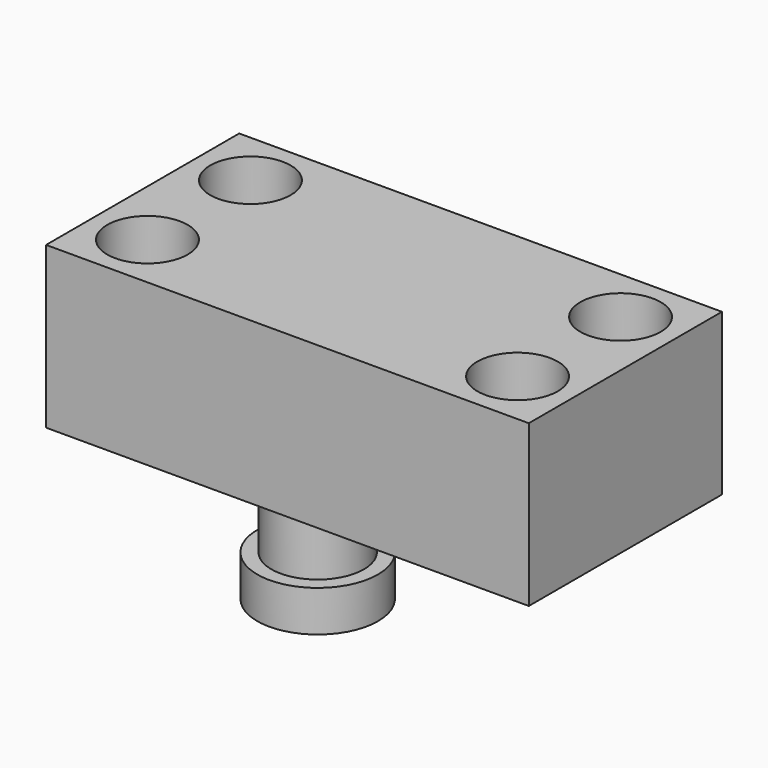
from build123d import *

# Parameters (mm, degrees)
F0_W     = 76.2
F0_H     = 38.1
F1_DEPTH = 25.4
F2_R     = 6.35
F3_DEPTH = 25.4
F4_R     = 9.525
F5_DEPTH = 25.4
F6_W     = 12.7
F6_H     = 12.7


with BuildPart() as f1:
    # F0 (on Top) → F1 (new body)
    with BuildSketch(Plane.XY):
        with Locations((13.890495, -4.273948)):
            Rectangle(F0_W, F0_H)
    extrude(amount=F1_DEPTH)

    # F2 (on Top) → F3 (cut)
    with BuildSketch(Plane.XY):
        with Locations((-15.319505, 5.886052)):
            Circle(F2_R)
        with Locations((-15.319505, -14.433948)):
            Circle(F2_R)
        with Locations((43.100495, 5.886052)):
            Circle(F2_R)
        with Locations((43.100495, -14.433948)):
            Circle(F2_R)
    extrude(amount=F3_DEPTH, mode=Mode.SUBTRACT)

    # F4 (on face) → F5 (join)
    with BuildSketch(Plane(origin=(0, 0, 0), x_dir=(1, 0, 0), z_dir=(0, 0, -1))):
        Circle(F4_R)
    extrude(amount=F5_DEPTH)

    # F6 (on Front) → F7 (revolve, cut)
    with BuildSketch(Plane.XZ):
        with Locations((13.650996, -12.565433)):
            Rectangle(F6_W, F6_H)
    revolve(axis=Axis((0, 0, -25.4), (0, 0, -1)), mode=Mode.SUBTRACT)


solid = f1.part
